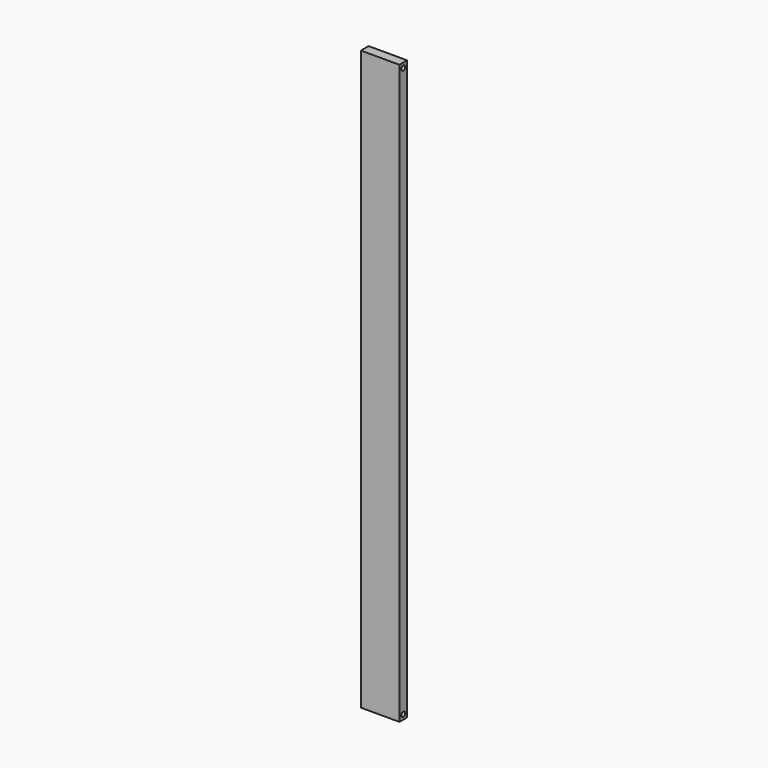
from build123d import *

# Parameters (mm, degrees)
F0_W     = 25.4
F0_H     = 381
F1_DEPTH = 6.35
F2_R     = 1.5875
F3_DEPTH = 3.175
F4_R     = 1.5875
F5_DEPTH = 3.175
F6_R     = 1.5875
F7_DEPTH = 3.175


with BuildPart() as f1:
    # F0 (on Front) → F1 (new body)
    with BuildSketch(Plane.XZ):
        Rectangle(F0_W, F0_H)
    extrude(amount=F1_DEPTH)

    # F2 (on face) → F3 (cut)
    with BuildSketch(Plane.YZ.offset(12.7)):
        with Locations((-3.175, 187.325)):
            Circle(F2_R)
        with Locations((-3.175, -187.325)):
            Circle(F2_R)
    extrude(amount=-F3_DEPTH, mode=Mode.SUBTRACT)

    # F4 (on face) → F5 (cut)
    with BuildSketch(Plane(origin=(-12.7, 0, 0), x_dir=(0, -1, 0), z_dir=(-1, 0, 0))):
        with Locations((3.175, 187.325)):
            Circle(F4_R)
        with Locations((3.175, -187.325)):
            Circle(F4_R)
    extrude(amount=-F5_DEPTH, mode=Mode.SUBTRACT)

    # F6 (on face) → F7 (cut)
    with BuildSketch(Plane(origin=(0, 0, -190.5), x_dir=(1, 0, 0), z_dir=(0, 0, -1))):
        with Locations((0, 3.175)):
            Circle(F6_R)
    extrude(amount=-F7_DEPTH, mode=Mode.SUBTRACT)


solid = f1.part
